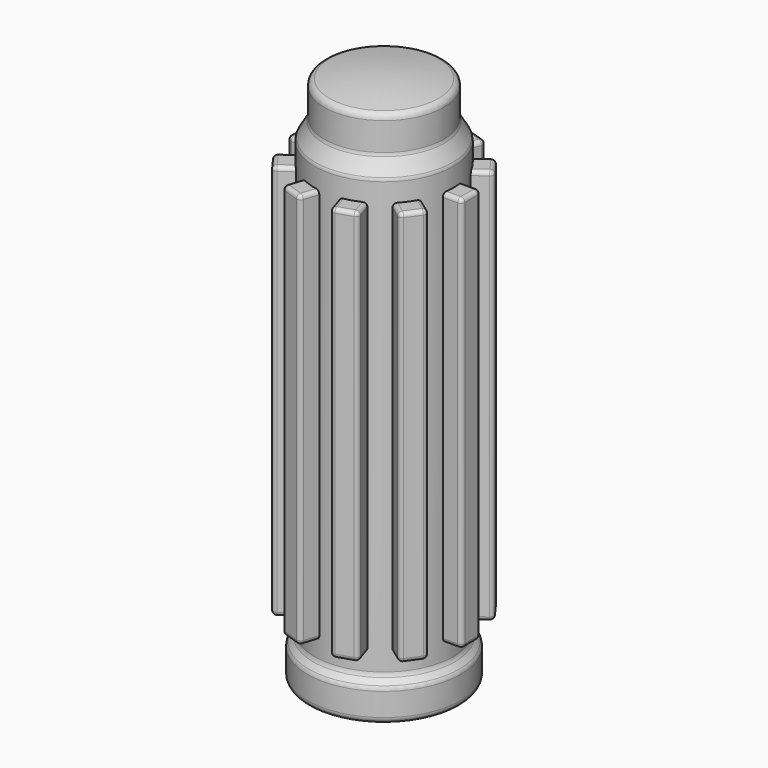
from build123d import *

# Parameters (mm, degrees)
F2_R     = 1.6
F4_W     = 6
F4_H     = 100
F6_R     = 1
F7_COUNT = 10


with BuildPart() as f1:
    # F0 (on Front) → F1 (revolve)
    with BuildSketch(Plane.XZ):
        with BuildLine():
            Line((10.75, 127), (10.75, 0))
            Line((10.75, 0), (19.325, 0))
            Line((19.325, 0), (19.325, 8))
            Line((19.325, 8), (17.5, 10.1749503065))
            Line((17.5, 10.1749503065), (17.5, 120.1749503065))
            Line((17.5, 120.1749503065), (15, 124.5050773254))
            Line((15, 124.5050773254), (15, 133.3249575952))
            ThreePointArc((15, 133.3249575952), (7.5466179024, 134.5799419816), (0, 135))
            Line((0, 135), (0, 127))
            Line((0, 127), (10.75, 127))
        make_face()
    revolve(axis=Axis((0, 0, 75.1920118928), (0, 0, 1)))

    # F2
    f2_edges = [f1.edges().sort_by_distance(p)[0] for p in [
        (-15, 0, 133.324958),
        (-15, 0, 124.505077),
        (-17.5, 0, 120.17495),
        (-17.5, 0, 10.17495),
        (-19.325, 0, 8),
        (-19.325, 0, 0),
    ]]
    fillet(f2_edges, radius=F2_R)


with BuildPart() as f5:
    # F4 (on offset) → F5 (new body, up to the next surface of F1)
    with BuildSketch(Plane.YZ.offset(22)):
        with Locations((0, 65)):
            Rectangle(F4_W, F4_H)
    extrude(until=Until.NEXT, target=f1.part, dir=(-1, 0, 0))

    # F6
    f6_edges = [f5.edges().sort_by_distance(p)[0] for p in [
        (19.62047, -3, 115),
        (19.62047, 3, 115),
        (22, 0, 115),
        (22, -3, 65),
        (22, 3, 65),
        (22, 0, 15),
        (19.62047, 3, 15),
        (19.62047, -3, 15),
    ]]
    fillet(f6_edges, radius=F6_R)


with BuildPart() as f7_1:
    # F7: instance of F5
    add(f5.part.rotate(Axis((0, 0, 75.1920118928), (0, 0, 1)), 1 * 360 / F7_COUNT))


with BuildPart() as f7_2:
    # F7: instance of F5
    add(f5.part.rotate(Axis((0, 0, 75.1920118928), (0, 0, 1)), 2 * 360 / F7_COUNT))


with BuildPart() as f7_3:
    # F7: instance of F5
    add(f5.part.rotate(Axis((0, 0, 75.1920118928), (0, 0, 1)), 3 * 360 / F7_COUNT))


with BuildPart() as f7_4:
    # F7: instance of F5
    add(f5.part.rotate(Axis((0, 0, 75.1920118928), (0, 0, 1)), 4 * 360 / F7_COUNT))


with BuildPart() as f7_5:
    # F7: instance of F5
    add(f5.part.rotate(Axis((0, 0, 75.1920118928), (0, 0, 1)), 5 * 360 / F7_COUNT))


with BuildPart() as f7_6:
    # F7: instance of F5
    add(f5.part.rotate(Axis((0, 0, 75.1920118928), (0, 0, 1)), 6 * 360 / F7_COUNT))


with BuildPart() as f7_7:
    # F7: instance of F5
    add(f5.part.rotate(Axis((0, 0, 75.1920118928), (0, 0, 1)), 7 * 360 / F7_COUNT))


with BuildPart() as f7_8:
    # F7: instance of F5
    add(f5.part.rotate(Axis((0, 0, 75.1920118928), (0, 0, 1)), 8 * 360 / F7_COUNT))


with BuildPart() as f7_9:
    # F7: instance of F5
    add(f5.part.rotate(Axis((0, 0, 75.1920118928), (0, 0, 1)), 9 * 360 / F7_COUNT))


solid = Compound([f1.part, f5.part, f7_1.part, f7_2.part, f7_3.part, f7_4.part, f7_5.part, f7_6.part, f7_7.part, f7_8.part, f7_9.part])
